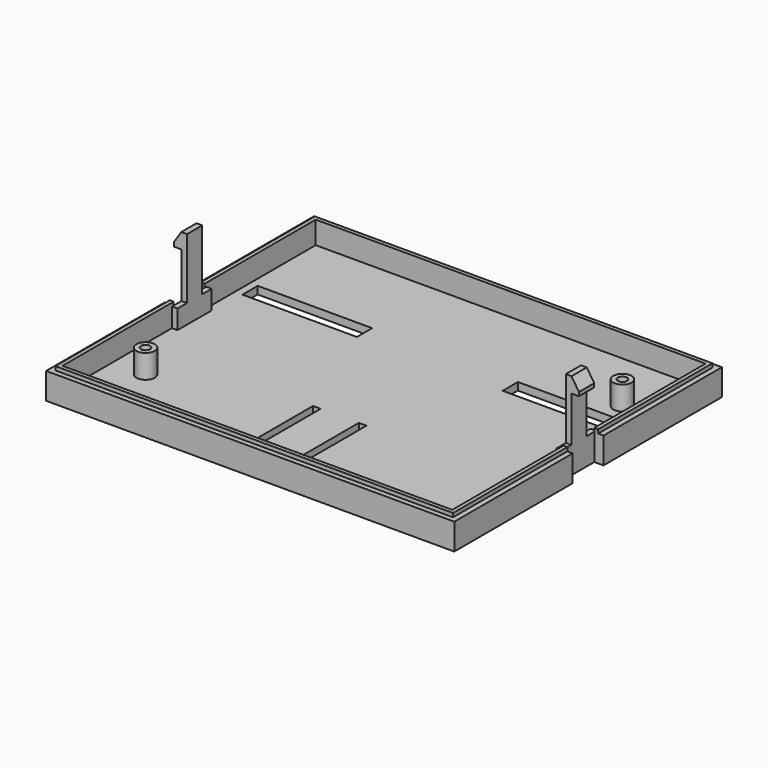
from build123d import *

# Parameters (mm, degrees)
SKETCH_W      = 102.2
SKETCH_H      = 83
SKETCH_W_2    = 30
SKETCH_H_2    = 5
SKETCH_W_3    = 2
SKETCH_H_3    = 25
PAD_DEPTH     = 2
SKETCH001_R   = 2.4
SKETCH001_R_2 = 1.2
PAD001_DEPTH  = 6.2
PAD002_DEPTH  = 6.9
PAD003_DEPTH  = 1
SKETCH004_W   = 1.45
SKETCH004_H   = 11.2
PAD004_DEPTH  = 5
SKETCH005_W   = 1.45
SKETCH005_H   = 5
PAD005_DEPTH  = 11.9
PAD006_DEPTH  = 5


with BuildPart() as part:
    # Sketch → Pad (new body)
    with BuildSketch(Plane.XY):
        Rectangle(SKETCH_W, SKETCH_H)
        with Locations((34.1, 17.5)):
            Rectangle(SKETCH_W_2, SKETCH_H_2, mode=Mode.SUBTRACT)
        with Locations((-34.1, 17.5)):
            Rectangle(SKETCH_W_2, SKETCH_H_2, mode=Mode.SUBTRACT)
        with Locations((6, -27)):
            Rectangle(SKETCH_W_3, SKETCH_H_3, mode=Mode.SUBTRACT)
        with Locations((-6, -27)):
            Rectangle(SKETCH_W_3, SKETCH_H_3, mode=Mode.SUBTRACT)
    extrude(amount=PAD_DEPTH)

    # Sketch001 (on Face22 of Pad) → Pad001 (join)
    with BuildSketch(Plane.XY.offset(2)):
        with Locations((-42.5, -25)):
            Circle(SKETCH001_R)
        with Locations((-42.5, -25)):
            Circle(SKETCH001_R_2, mode=Mode.SUBTRACT)
        with Locations((42.5, 25)):
            Circle(SKETCH001_R)
        with Locations((42.5, 25)):
            Circle(SKETCH001_R_2, mode=Mode.SUBTRACT)
    extrude(amount=PAD001_DEPTH)

    # Sketch002 → Pad002 (join)
    with BuildSketch(Plane.XY):
        Polygon((-51.1, 41.5), (51.1, 41.5), (51.1, 5.05), (53.5, 5.05), (53.5, 43.85), (-53.5, 43.85), (-53.5, 5.05), (-51.1, 5.05), align=None)
    pad002 = extrude(amount=PAD002_DEPTH)

    # Mirrored: Pad002 across XZ
    add(pad002.mirror(Plane.XZ))

    # Sketch003 (on Face36 of Mirrored) → Pad003 (join)
    with BuildSketch(Plane.XY.offset(6.9)):
        Polygon((-51.1, 5.05), (-51.1, 41.5), (51.1, 41.5), (51.1, 5.05), (52.1, 5.05), (52.1, 42.5), (-52.1, 42.5), (-52.1, 5.05), align=None)
    pad003 = extrude(amount=PAD003_DEPTH)

    # Mirrored001: Pad003 across XZ
    add(pad003.mirror(Plane.XZ))

    # Sketch004 (on Face3 of Mirrored001) → Pad004 (join)
    with BuildSketch(Plane.XY.offset(2)):
        with Locations((50.375, 0)):
            Rectangle(SKETCH004_W, SKETCH004_H)
    pad004 = extrude(amount=PAD004_DEPTH)

    # Mirrored002: Pad004 across YZ
    add(pad004.mirror(Plane.YZ))

    # Sketch005 (on Face40 of Mirrored002) → Pad005 (join)
    with BuildSketch(Plane.XY.offset(7)):
        with Locations((50.375, 0)):
            Rectangle(SKETCH005_W, SKETCH005_H)
    pad005 = extrude(amount=PAD005_DEPTH)

    # Mirrored003: Pad005 across YZ
    add(pad005.mirror(Plane.YZ))

    # Sketch006 (on Face2 of Mirrored003) → Pad006 (join)
    with BuildSketch(Plane.XZ.offset(2.5)):
        Polygon((49.65, 18.9), (51.1, 18.9), (53.1, 18.9), (53.1, 19.9), (51.15, 22.9), (49.65, 22.9), align=None)
    pad006 = extrude(amount=-PAD006_DEPTH)

    # Mirrored004: Pad006 across YZ
    add(pad006.mirror(Plane.YZ))


solid = part.part
